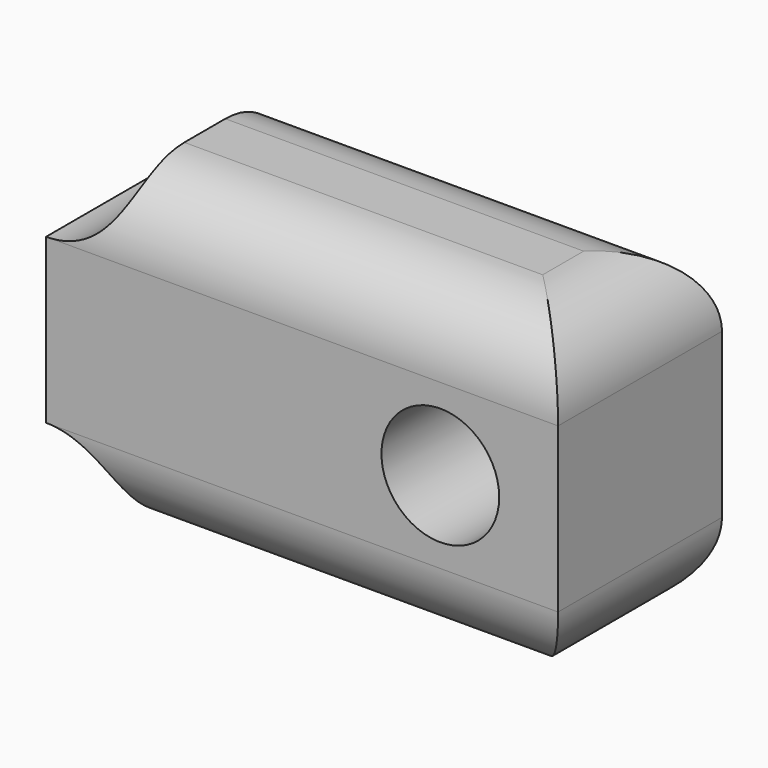
from build123d import *

# Parameters (mm, degrees)
F0_R     = 1.15
F1_DEPTH = 4
F2_R     = 1.5
F3_DEPTH = 5
F4_R     = 1.5


with BuildPart() as f1:
    # F0 (on Front) → F1 (new body)
    with BuildSketch(Plane.XZ):
        with BuildLine():
            Line((5, -3.1), (5, 3.1))
            Line((5, 3.1), (-3.5, 3.1))
            ThreePointArc((-3.5, 3.1), (-3.93934, 2.03934), (-5, 1.6))
            Line((-5, 1.6), (-5, -1.6))
            ThreePointArc((-5, -1.6), (-3.93934, -2.03934), (-3.5, -3.1))
            Line((-3.5, -3.1), (5, -3.1))
        make_face()
        with Locations((2.7, 0)):
            Circle(F0_R, mode=Mode.SUBTRACT)
    extrude(amount=F1_DEPTH)

    # F2 (on face) → F3 (cut)
    with BuildSketch(Plane(origin=(-5, 0, 0), x_dir=(0, -1, 0), z_dir=(-1, 0, 0))):
        with Locations((2, 0)):
            Circle(F2_R)
    extrude(amount=-F3_DEPTH, mode=Mode.SUBTRACT)

    # F4
    f4_edges = [f1.edges().sort_by_distance(p)[0] for p in [
        (0.75, 0, 3.1),
        (5, -2, 3.1),
        (0.75, -4, 3.1),
        (0.75, -4, -3.1),
        (0.75, 0, -3.1),
        (5, -2, -3.1),
    ]]
    fillet(f4_edges, radius=F4_R)


solid = f1.part
